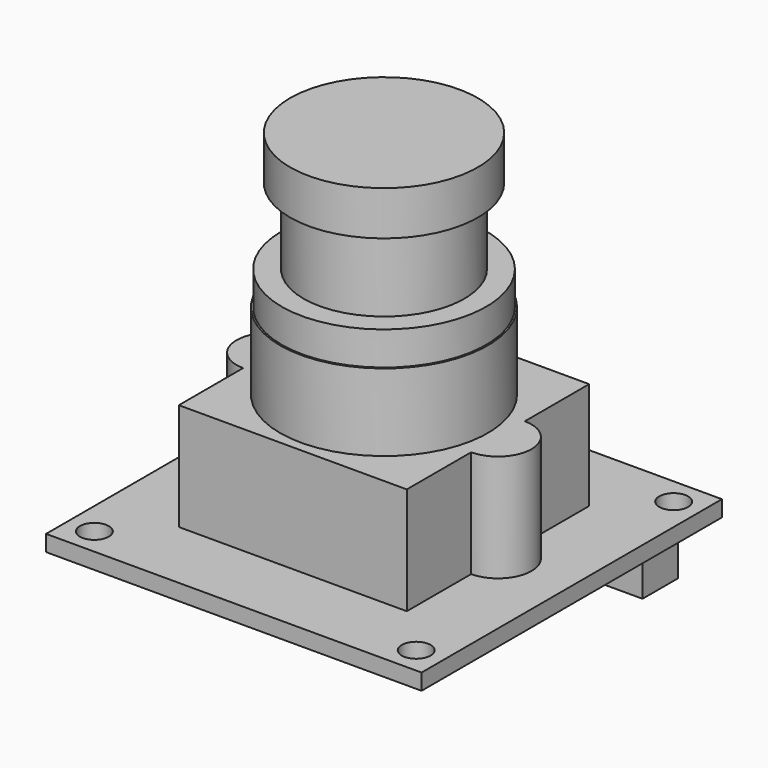
from build123d import *

# Parameters (mm, degrees)
F0_W     = 28
F0_H     = 28
F0_R     = 1.075
F1_DEPTH = 1.2
F3_DEPTH = 8
F6_W     = 4.2
F6_H     = 3.3
F6_W_2   = 5.6
F7_DEPTH = 5


with BuildPart() as f1:
    # F0 (on Top) → F1 (new body)
    with BuildSketch(Plane.XY):
        Rectangle(F0_W, F0_H)
        with Locations((-12, -12)):
            Circle(F0_R, mode=Mode.SUBTRACT)
        with Locations((12, -12)):
            Circle(F0_R, mode=Mode.SUBTRACT)
        with Locations((-12, 12)):
            Circle(F0_R, mode=Mode.SUBTRACT)
        with Locations((12, 12)):
            Circle(F0_R, mode=Mode.SUBTRACT)
    extrude(amount=F1_DEPTH)

    # F6 (on face) → F7 (join)
    with BuildSketch(Plane(origin=(0, 0, 0), x_dir=(1, 0, 0), z_dir=(0, 0, -1))):
        with Locations((2.9, -12.25)):
            Rectangle(F6_W, F6_H)
        with Locations((8, -12.25)):
            Rectangle(F6_W_2, F6_H)
    extrude(amount=F7_DEPTH)


with BuildPart() as f3:
    # F2 (on face) → F3 (new body)
    with BuildSketch(Plane.XY.offset(1.2)):
        with BuildLine():
            Line((8.5, 8.5), (-8.5, 8.5))
            Line((-8.5, 8.5), (-8.5, 2.5))
            ThreePointArc((-8.5, 2.5), (-11, 0), (-8.5, -2.5))
            Line((-8.5, -2.5), (-8.5, -8.5))
            Line((-8.5, -8.5), (8.5, -8.5))
            Line((8.5, -8.5), (8.5, -2.5))
            ThreePointArc((8.5, -2.5), (11, 0), (8.5, 2.5))
            Line((8.5, 2.5), (8.5, 8.5))
        make_face()
    extrude(amount=F3_DEPTH)

    # F4 (on Front) → F5 (revolve)
    with BuildSketch(Plane.XZ):
        Polygon((0, 9.2), (0, 26.4), (-7, 26.4), (-7, 23.1), (-6, 23.1), (-6, 17.45), (-7.625, 17.45), (-7.625, 14.95), (-7.75, 14.95), (-7.75, 9.2), align=None)
    revolve(axis=Axis((0, 0, 17.8), (0, 0, 1)))


solid = Compound([f1.part, f3.part])
